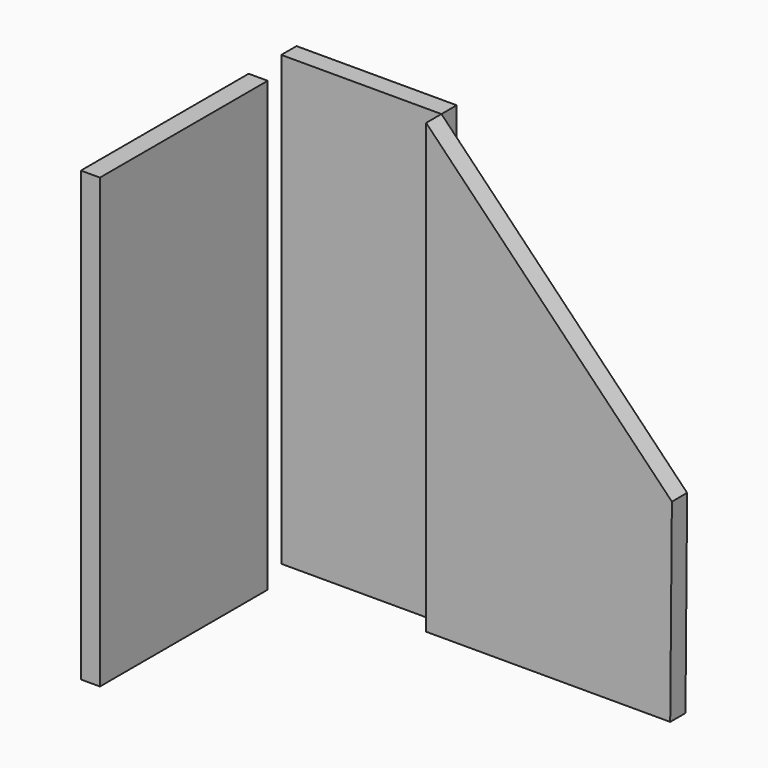
from build123d import *

# Parameters (mm, degrees)
F0_W     = 100
F0_H     = 1100
F1_DEPTH = 2350
F2_W     = 840
F2_H     = 100
F3_DEPTH = 2350
F5_DEPTH = 100


with BuildPart() as f1:
    # F0 (on Top) → F1 (new body)
    with BuildSketch(Plane.XY):
        with Locations((50, 550)):
            Rectangle(F0_W, F0_H)
    extrude(amount=F1_DEPTH)


with BuildPart() as f3:
    # F2 (on Top) → F3 (new body)
    with BuildSketch(Plane.XY):
        with Locations((420, 1364.000063)):
            Rectangle(F2_W, F2_H)
    extrude(amount=F3_DEPTH)


with BuildPart() as f5:
    # F4 (on face) → F5 (new body)
    with BuildSketch(Plane.XZ.offset(-1314.000063)):
        Polygon((2128.750702, 1019.962463), (840, 2350), (840, 0), (2120, 0), align=None)
    extrude(amount=F5_DEPTH)


solid = Compound([f1.part, f3.part, f5.part])
